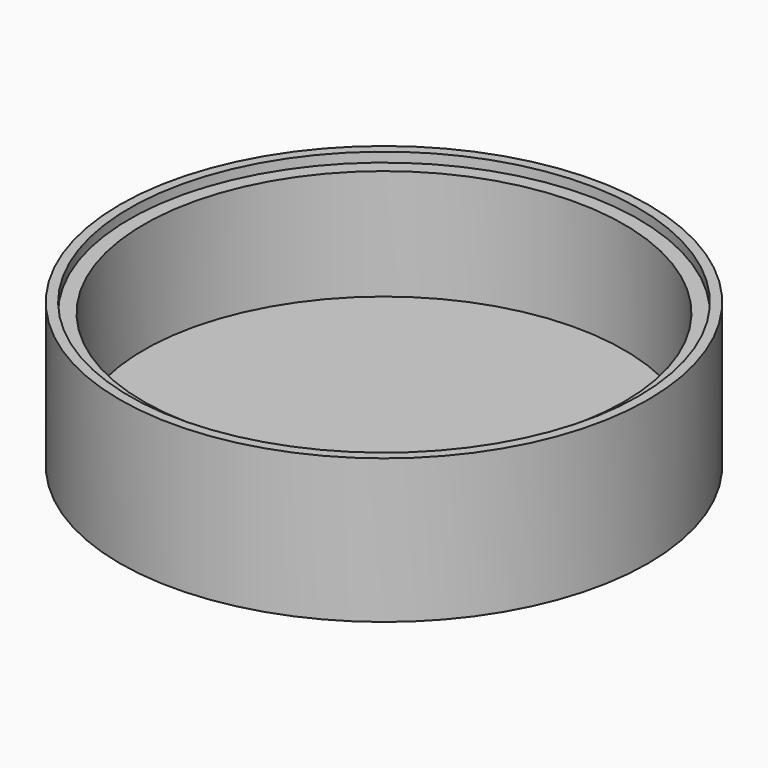
from build123d import *

# Parameters (mm, degrees)
F0_W = 3
F0_H = 2


with BuildPart() as f1:
    # F0 (on Front) → F1 (revolve)
    with BuildSketch(Plane.XZ):
        Polygon((0, 5), (0, 0), (55, 0), (55, 30), (53, 30), (53, 28), (50, 28), (50, 5), align=None)
        with Locations((51.5, 29)):
            Rectangle(F0_W, F0_H)
    revolve(axis=Axis((0, 0, 2.5), (0, 0, -1)))

    # F0 (on Front) → F2 (revolve, cut)
    with BuildSketch(Plane.XZ):
        with Locations((51.5, 29)):
            Rectangle(F0_W, F0_H)
    revolve(axis=Axis((0, 0, 2.5), (0, 0, -1)), mode=Mode.SUBTRACT)


solid = f1.part
